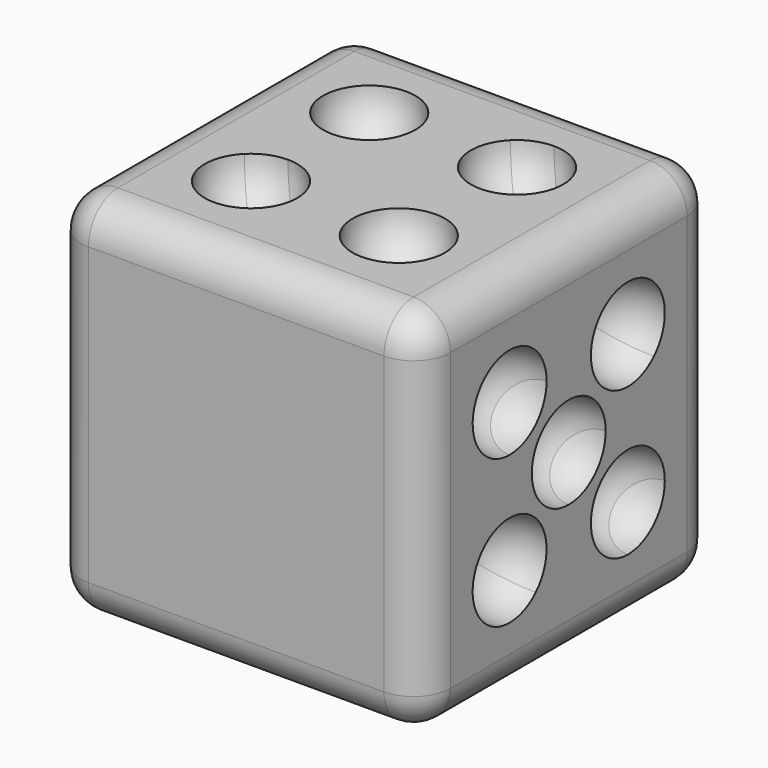
from build123d import *

# Parameters (mm, degrees)
F0_W     = 50.8
F0_H     = 50.8000037277
F1_DEPTH = 50.8
F2_R     = 5.08


with BuildPart() as f1:
    # F0 (on Front) → F1 (new body)
    with BuildSketch(Plane.XZ):
        with Locations((25.4, 25.4000018639)):
            Rectangle(F0_W, F0_H)
    extrude(amount=F1_DEPTH)

    # F2
    f2_edges = [f1.edges().sort_by_distance(p)[0] for p in [
        (25.4, -50.8, 50.800004),
        (50.8, -25.4, 50.800004),
        (25.4, -50.8, 0),
        (50.8, -25.4, 0),
        (50.8, -50.8, 25.400002),
        (50.8, 0, 25.400002),
        (0, -50.8, 25.400002),
        (0, -25.4, 50.800004),
        (25.4, 0, 50.800004),
        (0, 0, 25.400002),
        (0, -25.4, 0),
        (25.4, 0, 0),
    ]]
    fillet(f2_edges, radius=F2_R)

    # F4 (on face) → F5 (revolve, cut)
    with BuildSketch(Plane(origin=(0, 0, 0), x_dir=(0, -1, 0), z_dir=(-1, 0, 0))):
        with BuildLine():
            ThreePointArc((19.7301278546, 40.0501310623), (15.24, 41.9100027958), (10.7498721454, 40.0501310623))
            Line((10.7498721454, 40.0501310623), (15.24, 35.5600027958))
            Line((15.24, 35.5600027958), (19.7301278546, 40.0501310623))
        make_face()
        with BuildLine():
            Line((19.7301278546, 40.0501310623), (15.24, 35.5600027958))
            Line((15.24, 35.5600027958), (19.7301278546, 31.0698745293))
            ThreePointArc((19.7301278546, 31.0698745293), (21.1066349757, 33.1299628658), (21.59, 35.5600027958))
            ThreePointArc((21.59, 35.5600027958), (21.1066349757, 37.9900427259), (19.7301278546, 40.0501310623))
        make_face()
        with BuildLine():
            ThreePointArc((40.0501278546, 19.7301291984), (35.56, 21.5900009319), (31.0698721454, 19.7301291984))
            Line((31.0698721454, 19.7301291984), (35.56, 15.2400009319))
            Line((35.56, 15.2400009319), (40.0501278546, 19.7301291984))
        make_face()
        with BuildLine():
            Line((40.0501278546, 19.7301291984), (35.56, 15.2400009319))
            Line((35.56, 15.2400009319), (40.0501278546, 10.7498726655))
            ThreePointArc((40.0501278546, 10.7498726655), (41.4266349757, 12.8099610019), (41.91, 15.2400009319))
            ThreePointArc((41.91, 15.2400009319), (41.4266349757, 17.670040862), (40.0501278546, 19.7301291984))
        make_face()
    revolve(axis=Axis((0, -25.4, 25.4000018639), (0, -0.7071067488, -0.7071068136)), mode=Mode.SUBTRACT)

    # F6 (on face) → F7 (revolve, cut)
    with BuildSketch(Plane(origin=(0, 0, 0), x_dir=(1, 0, 0), z_dir=(0, 0, -1))):
        with BuildLine():
            Line((19.7301280605, 31.0698719395), (10.7498719395, 40.0501280605))
            ThreePointArc((10.7498719395, 40.0501280605), (10.7498719395, 31.0698719395), (19.7301280605, 31.0698719395))
        make_face()
        with BuildLine():
            Line((29.8901280605, 20.9098719395), (20.9098719395, 29.8901280605))
            ThreePointArc((20.9098719395, 29.8901280605), (20.9098719395, 20.9098719395), (29.8901280605, 20.9098719395))
        make_face()
        with BuildLine():
            ThreePointArc((32.4805509633, 18.3194490367), (32.4805509633, 9.3391929156), (41.4608070844, 9.3391929156))
            Line((41.4608070844, 9.3391929156), (32.4805509633, 18.3194490367))
        make_face()
    revolve(axis=Axis((25.4, -25.4, 0), (0.7071067812, 0.7071067812, 0)), mode=Mode.SUBTRACT)

    # F8 (on face) → F9 (revolve, cut)
    with BuildSketch(Plane.XY.offset(50.8000037277)):
        with BuildLine():
            ThreePointArc((19.7301280605, -10.7498719395), (15.24, -8.89), (10.7498719395, -10.7498719395))
            Line((10.7498719395, -10.7498719395), (15.24, -15.24))
            Line((15.24, -15.24), (19.7301280605, -10.7498719395))
        make_face()
        with BuildLine():
            Line((19.7301280605, -10.7498719395), (15.24, -15.24))
            Line((15.24, -15.24), (19.7301280605, -19.7301280605))
            ThreePointArc((19.7301280605, -19.7301280605), (21.1066350314, -17.6700397955), (21.59, -15.24))
            ThreePointArc((21.59, -15.24), (21.1066350314, -12.8099602045), (19.7301280605, -10.7498719395))
        make_face()
        with BuildLine():
            ThreePointArc((40.0501280605, -31.0698719395), (35.56, -29.21), (31.0698719395, -31.0698719395))
            Line((31.0698719395, -31.0698719395), (35.56, -35.56))
            Line((35.56, -35.56), (40.0501280605, -31.0698719395))
        make_face()
        with BuildLine():
            Line((40.0501280605, -31.0698719395), (35.56, -35.56))
            Line((35.56, -35.56), (40.0501280605, -40.0501280605))
            ThreePointArc((40.0501280605, -40.0501280605), (41.4266350314, -37.9900397955), (41.91, -35.56))
            ThreePointArc((41.91, -35.56), (41.4266350314, -33.1299602045), (40.0501280605, -31.0698719395))
        make_face()
    revolve(axis=Axis((25.4, -25.4, 50.8000037277), (0.7071067812, -0.7071067812, 0)), mode=Mode.SUBTRACT)

    # F10 (on face) → F11 (revolve, cut)
    with BuildSketch(Plane(origin=(0, 0, 0), x_dir=(-1, 0, 0), z_dir=(0, 1, 0))):
        with BuildLine():
            Line((-19.05, 25.4000018639), (-31.75, 25.4000018639))
            ThreePointArc((-31.75, 25.4000018639), (-29.8901280605, 20.9098738033), (-25.4, 19.0500018639))
            ThreePointArc((-25.4, 19.0500018639), (-20.9098719395, 20.9098738033), (-19.05, 25.4000018639))
        make_face()
    revolve(axis=Axis((25.4, 0, 25.4000018639), (1, 0, 0)), mode=Mode.SUBTRACT)

    # F12 (on face) → F13 (revolve, cut)
    with BuildSketch(Plane.YZ.offset(50.8)):
        with BuildLine():
            ThreePointArc((-29.21, 35.5600027958), (-33.12996007, 41.4266377715), (-40.0501278546, 40.0501310623))
            Line((-40.0501278546, 40.0501310623), (-31.0698721454, 31.0698745293))
            ThreePointArc((-31.0698721454, 31.0698745293), (-29.6933650243, 33.1299628658), (-29.21, 35.5600027958))
        make_face()
        with BuildLine():
            ThreePointArc((-20.9098721454, 29.8901301303), (-25.4, 31.7500018639), (-29.8901278546, 29.8901301303))
            Line((-29.8901278546, 29.8901301303), (-25.4, 25.4000018639))
            Line((-25.4, 25.4000018639), (-20.9098721454, 29.8901301303))
        make_face()
        with BuildLine():
            Line((-20.9098721454, 29.8901301303), (-25.4, 25.4000018639))
            Line((-25.4, 25.4000018639), (-20.9098721454, 20.9098735974))
            ThreePointArc((-20.9098721454, 20.9098735974), (-19.5333650243, 22.9699619338), (-19.05, 25.4000018639))
            ThreePointArc((-19.05, 25.4000018639), (-19.5333650243, 27.8300417939), (-20.9098721454, 29.8901301303))
        make_face()
        with BuildLine():
            Line((-19.7301278546, 19.7301291984), (-10.7498721454, 10.7498726655))
            ThreePointArc((-10.7498721454, 10.7498726655), (-9.3733650243, 12.8099610019), (-8.89, 15.2400009319))
            ThreePointArc((-8.89, 15.2400009319), (-12.80996007, 21.1066359077), (-19.7301278546, 19.7301291984))
        make_face()
    revolve(axis=Axis((50.8, -25.4, 25.4000018639), (0, 0.7071067488, -0.7071068136)), mode=Mode.SUBTRACT)

    # F14 (on face) → F15 (revolve, cut)
    with BuildSketch(Plane.YZ.offset(50.8)):
        with BuildLine():
            Line((-40.0501278546, 19.7301291984), (-35.56, 15.2400009319))
            Line((-35.56, 15.2400009319), (-31.0698721454, 19.7301291984))
            ThreePointArc((-31.0698721454, 19.7301291984), (-35.56, 21.5900009319), (-40.0501278546, 19.7301291984))
        make_face()
        with BuildLine():
            ThreePointArc((-40.0501278546, 19.7301291984), (-41.91, 15.2400009319), (-40.0501278546, 10.7498726655))
            Line((-40.0501278546, 10.7498726655), (-35.56, 15.2400009319))
            Line((-35.56, 15.2400009319), (-40.0501278546, 19.7301291984))
        make_face()
        with BuildLine():
            Line((-15.24, 35.5600027958), (-19.7301278546, 40.0501310623))
            ThreePointArc((-19.7301278546, 40.0501310623), (-21.59, 35.5600027958), (-19.7301278546, 31.0698745293))
            Line((-19.7301278546, 31.0698745293), (-15.24, 35.5600027958))
        make_face()
        with BuildLine():
            ThreePointArc((-10.7498721454, 40.0501310623), (-15.24, 41.9100027958), (-19.7301278546, 40.0501310623))
            Line((-19.7301278546, 40.0501310623), (-15.24, 35.5600027958))
            Line((-15.24, 35.5600027958), (-10.7498721454, 40.0501310623))
        make_face()
    revolve(axis=Axis((50.8, -25.4, 25.4000018639), (0, 0.7071067488, 0.7071068136)), mode=Mode.SUBTRACT)

    # F8 (on face) → F16 (revolve, cut)
    with BuildSketch(Plane.XY.offset(50.8000037277)):
        with BuildLine():
            Line((40.0501280605, -10.7498719395), (35.56, -15.24))
            Line((35.56, -15.24), (40.0501280605, -19.7301280605))
            ThreePointArc((40.0501280605, -19.7301280605), (41.4266350314, -17.6700397955), (41.91, -15.24))
            ThreePointArc((41.91, -15.24), (41.4266350314, -12.8099602045), (40.0501280605, -10.7498719395))
        make_face()
        with BuildLine():
            Line((35.56, -15.24), (31.0698719395, -19.7301280605))
            ThreePointArc((31.0698719395, -19.7301280605), (35.56, -21.59), (40.0501280605, -19.7301280605))
            Line((40.0501280605, -19.7301280605), (35.56, -15.24))
        make_face()
        with BuildLine():
            ThreePointArc((21.59, -35.56), (21.1066350314, -33.1299602045), (19.7301280605, -31.0698719395))
            Line((19.7301280605, -31.0698719395), (15.24, -35.56))
            Line((15.24, -35.56), (19.7301280605, -40.0501280605))
            ThreePointArc((19.7301280605, -40.0501280605), (21.1066350314, -37.9900397955), (21.59, -35.56))
        make_face()
        with BuildLine():
            Line((19.7301280605, -40.0501280605), (15.24, -35.56))
            Line((15.24, -35.56), (10.7498719395, -40.0501280605))
            ThreePointArc((10.7498719395, -40.0501280605), (15.24, -41.91), (19.7301280605, -40.0501280605))
        make_face()
    revolve(axis=Axis((25.4, -25.4, 50.8000037277), (0.7071067812, 0.7071067812, 0)), mode=Mode.SUBTRACT)


solid = f1.part
